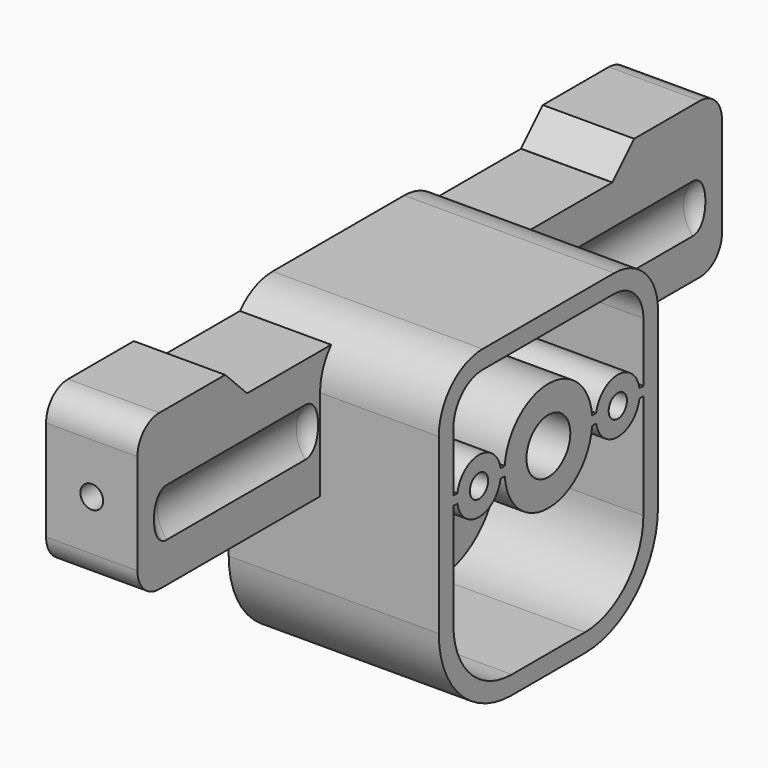
from build123d import *

# Parameters (mm, degrees)
CYLINDER105_R           = 1.2
CYLINDER105_DEPTH       = 10
CYLINDER105_PITCH_ANGLE = 90
CYLINDER106_R           = 1.2
CYLINDER106_DEPTH       = 10
CYLINDER106_PITCH_ANGLE = 90
CYLINDER086_R           = 1.25
CYLINDER086_DEPTH       = 23
CYLINDER086_PITCH_ANGLE = 90
CYLINDER085_R           = 1.25
CYLINDER085_DEPTH       = 23
CYLINDER085_PITCH_ANGLE = 90
CYLINDER083_R           = 3
CYLINDER083_DEPTH       = 23
CYLINDER083_PITCH_ANGLE = 90
CYLINDER075_R           = 3
CYLINDER075_DEPTH       = 16
CYLINDER075_PITCH_ANGLE = 90
BOX020_W                = 16
BOX020_H                = 26
BOX020_DEPTH            = 1
CYLINDER076_R           = 6
CYLINDER076_DEPTH       = 16
CYLINDER076_PITCH_ANGLE = 90
BOX019_W                = 18
BOX019_H                = 26
BOX019_DEPTH            = 31
FILLET027_R             = 4
FILLET028_R             = 8
BOX018_W                = 23
BOX018_H                = 80
BOX018_DEPTH            = 41
CYLINDER051_R           = 1.25
CYLINDER051_DEPTH       = 10
CYLINDER051_ROLL_ANGLE  = 90
CYLINDER053_R           = 1.25
CYLINDER053_DEPTH       = 10
CYLINDER053_ROLL_ANGLE  = 90
CYLINDER039_R           = 4
CYLINDER039_DEPTH       = 23
CYLINDER039_ROLL_ANGLE  = 90
FILLET012_R             = 2
CYLINDER037_R           = 4
CYLINDER037_DEPTH       = 23
CYLINDER037_ROLL_ANGLE  = 90
FILLET011_R             = 2
CYLINDER038_R           = 4
CYLINDER038_DEPTH       = 23
CYLINDER038_ROLL_ANGLE  = 90
FILLET013_R             = 2
CYLINDER036_R           = 4
CYLINDER036_DEPTH       = 23
CYLINDER036_ROLL_ANGLE  = 90
FILLET010_R             = 2
CYLINDER030_R           = 5.6
CYLINDER030_DEPTH       = 4.5
CYLINDER030_PITCH_ANGLE = 90
CYLINDER029_R           = 5.6
CYLINDER029_DEPTH       = 4.5
CYLINDER029_PITCH_ANGLE = 90
CYLINDER031_R           = 3
CYLINDER031_DEPTH       = 33
CYLINDER031_PITCH_ANGLE = 90
CYLINDER027_R           = 1.25
CYLINDER027_DEPTH       = 15
CYLINDER027_PITCH_ANGLE = 90
CYLINDER026_R           = 1.25
CYLINDER026_DEPTH       = 15
CYLINDER026_PITCH_ANGLE = 90
CYLINDER025_R           = 1.25
CYLINDER025_DEPTH       = 15
CYLINDER025_PITCH_ANGLE = 90
CYLINDER024_R           = 1.25
CYLINDER024_DEPTH       = 15
CYLINDER024_PITCH_ANGLE = 90
CYLINDER023_R           = 17
CYLINDER023_DEPTH       = 10
CYLINDER023_PITCH_ANGLE = 90
BOX008_W                = 22
BOX008_H                = 36
BOX008_DEPTH            = 40
CYLINDER_R              = 17
CYLINDER_DEPTH          = 17
CYLINDER_PITCH_ANGLE    = 90
BOX005_W                = 23
BOX005_H                = 30
BOX005_DEPTH            = 35
FILLET008_R             = 10
FILLET009_R             = 6
BOX006_W                = 32
BOX006_H                = 30
BOX006_DEPTH            = 40
FILLET_R                = 10
FILLET007_R             = 6
BOX004_W                = 10
BOX004_H                = 50
BOX004_DEPTH            = 3
BOX003_W                = 10
BOX003_H                = 80
BOX003_DEPTH            = 17
FILLET006_R             = 3
CHAMFER_SIZE            = 2.99
CYLINDER084_R           = 3
CYLINDER084_DEPTH       = 23
CYLINDER084_PITCH_ANGLE = 90


with BuildPart() as cylinder105:
    # Cylinder105 → Cylinder105 (new body)
    with BuildSketch(Plane.XY):
        Circle(CYLINDER105_R)
    extrude(amount=CYLINDER105_DEPTH)


with BuildPart() as cylinder105_1:
    # Cylinder105 pitch: moved
    add(cylinder105.part.rotate(Axis((0, 0, 0), (0, 1, 0)), CYLINDER105_PITCH_ANGLE))


with BuildPart() as cylinder105_2:
    # Cylinder105 placement: moved
    add(cylinder105_1.part.moved(Location((0, 15, 35.5))))


with BuildPart() as fusion055:
    # Cylinder106 → Cylinder106 (new body)
    with BuildSketch(Plane.XY):
        Circle(CYLINDER106_R)
    extrude(amount=CYLINDER106_DEPTH)


with BuildPart() as fusion055_1:
    # Cylinder106 pitch: moved
    add(fusion055.part.rotate(Axis((0, 0, 0), (0, 1, 0)), CYLINDER106_PITCH_ANGLE))


with BuildPart() as fusion055_2:
    # Cylinder106 placement: moved
    add(fusion055_1.part.moved(Location((0, 15, 18.5))))

    # Fusion055: union Cylinder105
    add(cylinder105_2.part)


with BuildPart() as cylinder086:
    # Cylinder086 → Cylinder086 (new body)
    with BuildSketch(Plane.XY):
        Circle(CYLINDER086_R)
    extrude(amount=CYLINDER086_DEPTH)


with BuildPart() as cylinder086_1:
    # Cylinder086 pitch: moved
    add(cylinder086.part.rotate(Axis((0, 0, 0), (0, 1, 0)), CYLINDER086_PITCH_ANGLE))


with BuildPart() as cylinder086_2:
    # Cylinder086 placement: moved
    add(cylinder086_1.part.moved(Location((0, 5.5, 27))))


with BuildPart() as fusion048:
    # Cylinder085 → Cylinder085 (new body)
    with BuildSketch(Plane.XY):
        Circle(CYLINDER085_R)
    extrude(amount=CYLINDER085_DEPTH)


with BuildPart() as fusion048_1:
    # Cylinder085 pitch: moved
    add(fusion048.part.rotate(Axis((0, 0, 0), (0, 1, 0)), CYLINDER085_PITCH_ANGLE))


with BuildPart() as fusion048_2:
    # Cylinder085 placement: moved
    add(fusion048_1.part.moved(Location((0, 24.5, 27))))

    # Fusion048: union Cylinder086
    add(cylinder086_2.part)


with BuildPart() as fusion048_3:
    # Fusion048 placement: moved
    add(fusion048_2.part.moved(Location((2, 0, 0))))


with BuildPart() as cylinder083:
    # Cylinder083 → Cylinder083 (new body)
    with BuildSketch(Plane.XY):
        Circle(CYLINDER083_R)
    extrude(amount=CYLINDER083_DEPTH)


with BuildPart() as cylinder083_1:
    # Cylinder083 pitch: moved
    add(cylinder083.part.rotate(Axis((0, 0, 0), (0, 1, 0)), CYLINDER083_PITCH_ANGLE))


with BuildPart() as cylinder083_2:
    # Cylinder083 placement: moved
    add(cylinder083_1.part.moved(Location((0, 5.5, 27))))


with BuildPart() as cylinder075:
    # Cylinder075 → Cylinder075 (new body)
    with BuildSketch(Plane.XY):
        Circle(CYLINDER075_R)
    extrude(amount=CYLINDER075_DEPTH)


with BuildPart() as cylinder075_1:
    # Cylinder075 pitch: moved
    add(cylinder075.part.rotate(Axis((0, 0, 0), (0, 1, 0)), CYLINDER075_PITCH_ANGLE))


with BuildPart() as cylinder075_2:
    # Cylinder075 placement: moved
    add(cylinder075_1.part.moved(Location((7, 15, 27))))


with BuildPart() as cube007:
    # Box020 → Box020 (new body)
    with BuildSketch(Plane(origin=(7, 2, 26.5), x_dir=(1, 0, 0), z_dir=(0, 0, 1))):
        with Locations((8, 13)):
            Rectangle(BOX020_W, BOX020_H)
    extrude(amount=BOX020_DEPTH)


with BuildPart() as cut034:
    # Cylinder076 → Cylinder076 (new body)
    with BuildSketch(Plane.XY):
        Circle(CYLINDER076_R)
    extrude(amount=CYLINDER076_DEPTH)


with BuildPart() as cut034_1:
    # Cylinder076 pitch: moved
    add(cut034.part.rotate(Axis((0, 0, 0), (0, 1, 0)), CYLINDER076_PITCH_ANGLE))


with BuildPart() as cut034_2:
    # Cylinder076 placement: moved
    add(cut034_1.part.moved(Location((7, 15, 27))))

    # Fusion039: union Cube007
    add(cube007.part)

    # Cut034: cut Cylinder075
    add(cylinder075_2.part, mode=Mode.SUBTRACT)


with BuildPart() as fillet028:
    # Box019 → Box019 (new body)
    with BuildSketch(Plane(origin=(5, 2, 7), x_dir=(1, 0, 0), z_dir=(0, 0, 1))):
        with Locations((9, 13)):
            Rectangle(BOX019_W, BOX019_H)
    extrude(amount=BOX019_DEPTH)

    # Fillet027
    fillet027_edges = [fillet028.edges().sort_by_distance(p)[0] for p in [
        (14, 2, 38),
        (14, 28, 38),
    ]]
    fillet(fillet027_edges, radius=FILLET027_R)

    # Fillet028
    fillet028_edges = [fillet028.edges().sort_by_distance(p)[0] for p in [
        (14, 2, 7),
        (14, 28, 7),
    ]]
    fillet(fillet028_edges, radius=FILLET028_R)


with BuildPart() as fillet028_1:
    # Fillet028 placement: moved
    add(fillet028.part.moved(Location((2, 0, 0))))


with BuildPart() as box018:
    # Box018 → Box018 (new body)
    with BuildSketch(Plane(origin=(23, -25, 0), x_dir=(1, 0, 0), z_dir=(0, 0, 1))):
        with Locations((11.5, 40)):
            Rectangle(BOX018_W, BOX018_H)
    extrude(amount=BOX018_DEPTH)


with BuildPart() as cylinder051:
    # Cylinder051 → Cylinder051 (new body)
    with BuildSketch(Plane.XY):
        Circle(CYLINDER051_R)
    extrude(amount=CYLINDER051_DEPTH)


with BuildPart() as cylinder051_1:
    # Cylinder051 roll: moved
    add(cylinder051.part.rotate(Axis((0, 0, 0), (1, 0, 0)), CYLINDER051_ROLL_ANGLE))


with BuildPart() as cylinder051_2:
    # Cylinder051 placement: moved
    add(cylinder051_1.part.moved(Location((5, 55, 32.5))))


with BuildPart() as fusion026:
    # Cylinder053 → Cylinder053 (new body)
    with BuildSketch(Plane.XY):
        Circle(CYLINDER053_R)
    extrude(amount=CYLINDER053_DEPTH)


with BuildPart() as fusion026_1:
    # Cylinder053 roll: moved
    add(fusion026.part.rotate(Axis((0, 0, 0), (1, 0, 0)), CYLINDER053_ROLL_ANGLE))


with BuildPart() as fusion026_2:
    # Cylinder053 placement: moved
    add(fusion026_1.part.moved(Location((5, -15, 32.5))))

    # Fusion026: union Cylinder051
    add(cylinder051_2.part)


with BuildPart() as fillet012:
    # Cylinder039 → Cylinder039 (new body)
    with BuildSketch(Plane.XY):
        Circle(CYLINDER039_R)
    extrude(amount=CYLINDER039_DEPTH)


with BuildPart() as fillet012_1:
    # Cylinder039 roll: moved
    add(fillet012.part.rotate(Axis((0, 0, 0), (1, 0, 0)), CYLINDER039_ROLL_ANGLE))


with BuildPart() as fillet012_2:
    # Cylinder039 placement: moved
    add(fillet012_1.part.moved(Location((-3, 0, 31))))

    # Fillet012
    fillet012_edges = [fillet012_2.edges().sort_by_distance(p)[0] for p in [
        (-7, -23, 31),
        (-7, 0, 31),
    ]]
    fillet(fillet012_edges, radius=FILLET012_R)


with BuildPart() as fillet012_3:
    # Fillet012 placement: moved
    add(fillet012_2.part.moved(Location((16, 0, 0))))


with BuildPart() as fillet011:
    # Cylinder037 → Cylinder037 (new body)
    with BuildSketch(Plane.XY):
        Circle(CYLINDER037_R)
    extrude(amount=CYLINDER037_DEPTH)


with BuildPart() as fillet011_1:
    # Cylinder037 roll: moved
    add(fillet011.part.rotate(Axis((0, 0, 0), (1, 0, 0)), CYLINDER037_ROLL_ANGLE))


with BuildPart() as fillet011_2:
    # Cylinder037 placement: moved
    add(fillet011_1.part.moved(Location((-3, 0, 31))))

    # Fillet011
    fillet011_edges = [fillet011_2.edges().sort_by_distance(p)[0] for p in [
        (-7, -23, 31),
        (-7, 0, 31),
    ]]
    fillet(fillet011_edges, radius=FILLET011_R)


with BuildPart() as fillet011_3:
    # Fillet011 placement: moved
    add(fillet011_2.part.moved(Location((0, 53, 0))))


with BuildPart() as fillet013:
    # Cylinder038 → Cylinder038 (new body)
    with BuildSketch(Plane.XY):
        Circle(CYLINDER038_R)
    extrude(amount=CYLINDER038_DEPTH)


with BuildPart() as fillet013_1:
    # Cylinder038 roll: moved
    add(fillet013.part.rotate(Axis((0, 0, 0), (1, 0, 0)), CYLINDER038_ROLL_ANGLE))


with BuildPart() as fillet013_2:
    # Cylinder038 placement: moved
    add(fillet013_1.part.moved(Location((-3, 0, 31))))

    # Fillet013
    fillet013_edges = [fillet013_2.edges().sort_by_distance(p)[0] for p in [
        (-7, -23, 31),
        (-7, 0, 31),
    ]]
    fillet(fillet013_edges, radius=FILLET013_R)


with BuildPart() as fillet013_3:
    # Fillet013 placement: moved
    add(fillet013_2.part.moved(Location((16, 53, 0))))


with BuildPart() as fusion020:
    # Cylinder036 → Cylinder036 (new body)
    with BuildSketch(Plane.XY):
        Circle(CYLINDER036_R)
    extrude(amount=CYLINDER036_DEPTH)


with BuildPart() as fusion020_1:
    # Cylinder036 roll: moved
    add(fusion020.part.rotate(Axis((0, 0, 0), (1, 0, 0)), CYLINDER036_ROLL_ANGLE))


with BuildPart() as fusion020_2:
    # Cylinder036 placement: moved
    add(fusion020_1.part.moved(Location((-3, 0, 31))))

    # Fillet010
    fillet010_edges = [fusion020_2.edges().sort_by_distance(p)[0] for p in [
        (-7, -23, 31),
        (-7, 0, 31),
    ]]
    fillet(fillet010_edges, radius=FILLET010_R)

    # Fusion020: union Fillet012, Fillet011, Fillet013
    add(fillet012_3.part)
    add(fillet011_3.part)
    add(fillet013_3.part)


with BuildPart() as cylinder030:
    # Cylinder030 → Cylinder030 (new body)
    with BuildSketch(Plane.XY):
        Circle(CYLINDER030_R)
    extrude(amount=CYLINDER030_DEPTH)


with BuildPart() as cylinder030_1:
    # Cylinder030 pitch: moved
    add(cylinder030.part.rotate(Axis((0, 0, 0), (0, 1, 0)), CYLINDER030_PITCH_ANGLE))


with BuildPart() as cylinder030_2:
    # Cylinder030 placement: moved
    add(cylinder030_1.part.moved(Location((0, 15, 27))))


with BuildPart() as cylinder029:
    # Cylinder029 → Cylinder029 (new body)
    with BuildSketch(Plane.XY):
        Circle(CYLINDER029_R)
    extrude(amount=CYLINDER029_DEPTH)


with BuildPart() as cylinder029_1:
    # Cylinder029 pitch: moved
    add(cylinder029.part.rotate(Axis((0, 0, 0), (0, 1, 0)), CYLINDER029_PITCH_ANGLE))


with BuildPart() as cylinder029_2:
    # Cylinder029 placement: moved
    add(cylinder029_1.part.moved(Location((28.5, 15, 27))))


with BuildPart() as fusion018:
    # Cylinder031 → Cylinder031 (new body)
    with BuildSketch(Plane.XY):
        Circle(CYLINDER031_R)
    extrude(amount=CYLINDER031_DEPTH)


with BuildPart() as fusion018_1:
    # Cylinder031 pitch: moved
    add(fusion018.part.rotate(Axis((0, 0, 0), (0, 1, 0)), CYLINDER031_PITCH_ANGLE))


with BuildPart() as fusion018_2:
    # Cylinder031 placement: moved
    add(fusion018_1.part.moved(Location((0, 15, 27))))

    # Fusion018: union Cylinder030, Cylinder029
    add(cylinder030_2.part)
    add(cylinder029_2.part)


with BuildPart() as cylinder027:
    # Cylinder027 → Cylinder027 (new body)
    with BuildSketch(Plane.XY):
        Circle(CYLINDER027_R)
    extrude(amount=CYLINDER027_DEPTH)


with BuildPart() as cylinder027_1:
    # Cylinder027 pitch: moved
    add(cylinder027.part.rotate(Axis((0, 0, 0), (0, 1, 0)), CYLINDER027_PITCH_ANGLE))


with BuildPart() as cylinder027_2:
    # Cylinder027 placement: moved
    add(cylinder027_1.part.moved(Location((30, 4, 5))))


with BuildPart() as cylinder026:
    # Cylinder026 → Cylinder026 (new body)
    with BuildSketch(Plane.XY):
        Circle(CYLINDER026_R)
    extrude(amount=CYLINDER026_DEPTH)


with BuildPart() as cylinder026_1:
    # Cylinder026 pitch: moved
    add(cylinder026.part.rotate(Axis((0, 0, 0), (0, 1, 0)), CYLINDER026_PITCH_ANGLE))


with BuildPart() as cylinder026_2:
    # Cylinder026 placement: moved
    add(cylinder026_1.part.moved(Location((30, 26, 5))))


with BuildPart() as cylinder025:
    # Cylinder025 → Cylinder025 (new body)
    with BuildSketch(Plane.XY):
        Circle(CYLINDER025_R)
    extrude(amount=CYLINDER025_DEPTH)


with BuildPart() as cylinder025_1:
    # Cylinder025 pitch: moved
    add(cylinder025.part.rotate(Axis((0, 0, 0), (0, 1, 0)), CYLINDER025_PITCH_ANGLE))


with BuildPart() as cylinder025_2:
    # Cylinder025 placement: moved
    add(cylinder025_1.part.moved(Location((30, 25, 36))))


with BuildPart() as fusion016:
    # Cylinder024 → Cylinder024 (new body)
    with BuildSketch(Plane.XY):
        Circle(CYLINDER024_R)
    extrude(amount=CYLINDER024_DEPTH)


with BuildPart() as fusion016_1:
    # Cylinder024 pitch: moved
    add(fusion016.part.rotate(Axis((0, 0, 0), (0, 1, 0)), CYLINDER024_PITCH_ANGLE))


with BuildPart() as fusion016_2:
    # Cylinder024 placement: moved
    add(fusion016_1.part.moved(Location((30, 5, 36))))

    # Fusion016: union Cylinder027, Cylinder026, Cylinder025
    add(cylinder027_2.part)
    add(cylinder026_2.part)
    add(cylinder025_2.part)


with BuildPart() as fusion016_3:
    # Fusion016 placement: moved
    add(fusion016_2.part.moved(Location((-12, 0, 0))))


with BuildPart() as cylinder023:
    # Cylinder023 → Cylinder023 (new body)
    with BuildSketch(Plane.XY):
        Circle(CYLINDER023_R)
    extrude(amount=CYLINDER023_DEPTH)


with BuildPart() as cylinder023_1:
    # Cylinder023 pitch: moved
    add(cylinder023.part.rotate(Axis((0, 0, 0), (0, 1, 0)), CYLINDER023_PITCH_ANGLE))


with BuildPart() as cylinder023_2:
    # Cylinder023 placement: moved
    add(cylinder023_1.part.moved(Location((23, 15, 19))))


with BuildPart() as box008:
    # Box008 → Box008 (new body)
    with BuildSketch(Plane(origin=(33, -3, 0), x_dir=(1, 0, 0), z_dir=(0, 0, 1))):
        with Locations((11, 18)):
            Rectangle(BOX008_W, BOX008_H)
    extrude(amount=BOX008_DEPTH)


with BuildPart() as cylinder:
    # Cylinder → Cylinder (new body)
    with BuildSketch(Plane.XY):
        Circle(CYLINDER_R)
    extrude(amount=CYLINDER_DEPTH)


with BuildPart() as cylinder_1:
    # Cylinder pitch: moved
    add(cylinder.part.rotate(Axis((0, 0, 0), (0, 1, 0)), CYLINDER_PITCH_ANGLE))


with BuildPart() as cylinder_2:
    # Cylinder placement: moved
    add(cylinder_1.part.moved(Location((33, 15, 18))))


with BuildPart() as fillet009:
    # Box005 → Box005 (new body)
    with BuildSketch(Plane.XY.offset(5)):
        with Locations((11.5, 15)):
            Rectangle(BOX005_W, BOX005_H)
    extrude(amount=BOX005_DEPTH)

    # Fillet008
    fillet008_edges = [fillet009.edges().sort_by_distance(p)[0] for p in [
        (11.5, 0, 5),
        (11.5, 30, 5),
    ]]
    fillet(fillet008_edges, radius=FILLET008_R)

    # Fillet009
    fillet009_edges = [fillet009.edges().sort_by_distance(p)[0] for p in [
        (11.5, 0, 40),
        (11.5, 30, 40),
    ]]
    fillet(fillet009_edges, radius=FILLET009_R)


with BuildPart() as cut009:
    # Box006 → Box006 (new body)
    with BuildSketch(Plane(origin=(23, 0, 0), x_dir=(1, 0, 0), z_dir=(0, 0, 1))):
        with Locations((16, 15)):
            Rectangle(BOX006_W, BOX006_H)
    extrude(amount=BOX006_DEPTH)

    # Fillet
    fillet_edges = [cut009.edges().sort_by_distance(p)[0] for p in [
        (39, 0, 0),
        (39, 30, 0),
    ]]
    fillet(fillet_edges, radius=FILLET_R)

    # Fillet007
    fillet007_edges = [cut009.edges().sort_by_distance(p)[0] for p in [
        (39, 0, 40),
        (39, 30, 40),
    ]]
    fillet(fillet007_edges, radius=FILLET007_R)

    # Fusion007: union Fillet009
    add(fillet009.part)

    # Fusion: union Cylinder
    add(cylinder_2.part)

    # Cut006: cut Box008
    add(box008.part, mode=Mode.SUBTRACT)

    # Fusion015: union Cylinder023
    add(cylinder023_2.part)

    # Cut009: cut Fusion016
    add(fusion016_3.part, mode=Mode.SUBTRACT)


with BuildPart() as cube001:
    # Box004 → Box004 (new body)
    with BuildSketch(Plane(origin=(0, -10, 38), x_dir=(1, 0, 0), z_dir=(0, 0, 1))):
        with Locations((5, 25)):
            Rectangle(BOX004_W, BOX004_H)
    extrude(amount=BOX004_DEPTH)


with BuildPart() as fusion040:
    # Box003 → Box003 (new body)
    with BuildSketch(Plane(origin=(0, -25, 24), x_dir=(1, 0, 0), z_dir=(0, 0, 1))):
        with Locations((5, 40)):
            Rectangle(BOX003_W, BOX003_H)
    extrude(amount=BOX003_DEPTH)

    # Fillet006
    fillet006_edges = [fusion040.edges().sort_by_distance(p)[0] for p in [
        (5, -25, 24),
        (5, -25, 41),
        (5, 55, 24),
        (5, 55, 41),
    ]]
    fillet(fillet006_edges, radius=FILLET006_R)

    # Cut: cut Cube001
    add(cube001.part, mode=Mode.SUBTRACT)

    # Chamfer
    chamfer_edges = [fusion040.edges().sort_by_distance(p)[0] for p in [
        (5, -10, 41),
        (5, 40, 41),
    ]]
    chamfer(chamfer_edges, length=CHAMFER_SIZE)

    # Fusion017: union Cut009
    add(cut009.part)

    # Cut010: cut Fusion018
    add(fusion018_2.part, mode=Mode.SUBTRACT)

    # Cut013: cut Fusion020
    add(fusion020_2.part, mode=Mode.SUBTRACT)

    # Cut019: cut Fusion026
    add(fusion026_2.part, mode=Mode.SUBTRACT)

    # Cut032: cut Box018
    add(box018.part, mode=Mode.SUBTRACT)

    # Cut033: cut Fillet028
    add(fillet028_1.part, mode=Mode.SUBTRACT)

    # Fusion040: union Cut034
    add(cut034_2.part)


with BuildPart() as front_part:
    # Cylinder084 → Cylinder084 (new body)
    with BuildSketch(Plane.XY):
        Circle(CYLINDER084_R)
    extrude(amount=CYLINDER084_DEPTH)


with BuildPart() as front_part_1:
    # Cylinder084 pitch: moved
    add(front_part.part.rotate(Axis((0, 0, 0), (0, 1, 0)), CYLINDER084_PITCH_ANGLE))


with BuildPart() as front_part_2:
    # Cylinder084 placement: moved
    add(front_part_1.part.moved(Location((0, 24.5, 27))))

    # Fusion047: union Cylinder083, Fusion040
    add(cylinder083_2.part)
    add(fusion040.part)

    # Cut040: cut Fusion048
    add(fusion048_3.part, mode=Mode.SUBTRACT)

    # Cut046: cut Fusion055
    add(fusion055_2.part, mode=Mode.SUBTRACT)


solid = front_part_2.part
